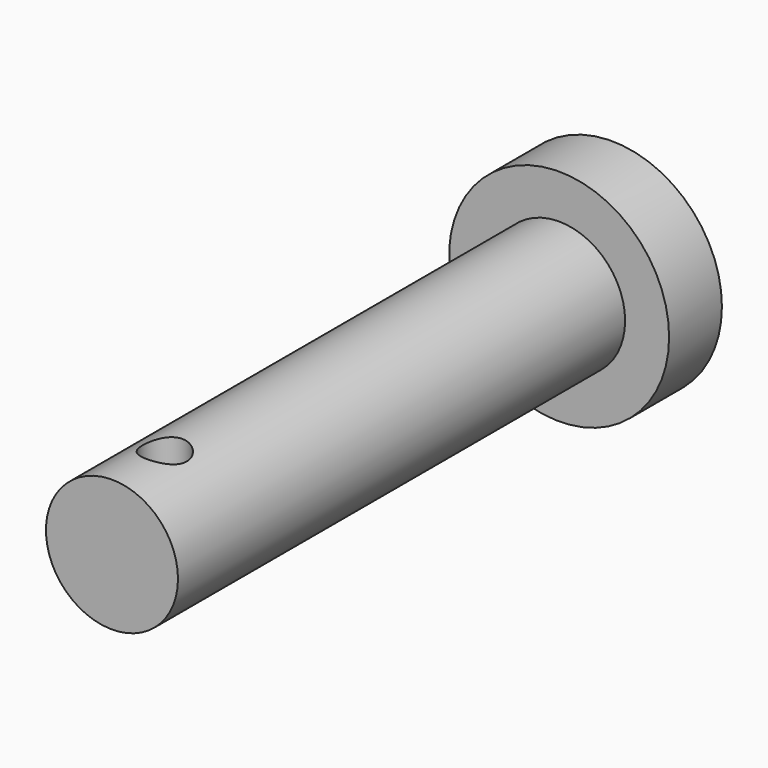
from build123d import *

# Parameters (mm, degrees)
F0_R     = 2.5
F1_DEPTH = 1.5
F2_R     = 1.5
F3_DEPTH = 12.7
F5_R     = 0.5
F6_DEPTH = 4.001


with BuildPart() as f1:
    # F0 (on Front) → F1 (new body)
    with BuildSketch(Plane.XZ):
        Circle(F0_R)
    extrude(amount=F1_DEPTH)

    # F2 (on face) → F3 (join)
    with BuildSketch(Plane.XZ.offset(1.5)):
        Circle(F2_R)
    extrude(amount=F3_DEPTH)

    # F5 (on offset) → F6 (cut, through all)
    with BuildSketch(Plane.XY.offset(1.5)):
        with Locations((0, -12.7)):
            Circle(F5_R)
    extrude(amount=-F6_DEPTH, mode=Mode.SUBTRACT)


solid = f1.part
